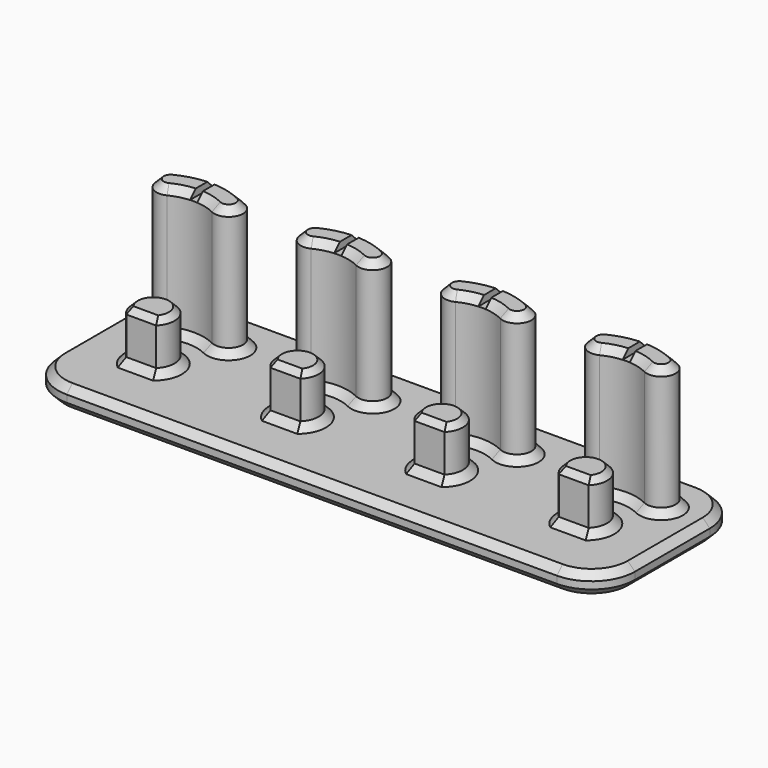
from build123d import *

# Parameters (mm, degrees)
PAD_DEPTH              = 3
PAD001_DEPTH           = 7
PAD002_DEPTH           = 18
SKETCH003_W            = 1
SKETCH003_H            = 10.328695
POCKET_DEPTH           = 1
LINEARPATTERN_COUNT    = 4
LINEARPATTERN_PITCH    = 20
LINEARPATTERN001_COUNT = 4
LINEARPATTERN001_PITCH = 20
LINEARPATTERN002_COUNT = 4
LINEARPATTERN002_PITCH = 20
CHAMFER_SIZE           = 1
CHAMFER001_SIZE        = 0.8
CHAMFER002_SIZE        = 1


with BuildPart() as part:
    # Sketch → Pad (new body)
    with BuildSketch(Plane.XY):
        with BuildLine():
            Line((-34, 15), (34, 15))
            ThreePointArc((40, 9), (38.242641, 13.242641), (34, 15))
            Line((40, 9), (40, -4))
            ThreePointArc((34, -10), (38.242641, -8.242641), (40, -4))
            Line((34, -10), (-34, -10))
            ThreePointArc((-40, -4), (-38.242641, -8.242641), (-34, -10))
            Line((-40, -4), (-40, 9))
            ThreePointArc((-34, 15), (-38.242641, 13.242641), (-40, 9))
        make_face()
    extrude(amount=PAD_DEPTH)

    # Sketch001 (on Face10 of Pad) → Pad001 (join)
    with BuildSketch(Plane.XY.offset(3)):
        with BuildLine():
            Line((-32.071835, -2.1), (-27.928165, -2.1))
            ThreePointArc((-27.928165, -2.1), (-30, 2.95), (-32.071835, -2.1))
        make_face()
    pad001 = extrude(amount=PAD001_DEPTH)

    # Sketch002 (on Face5 of Pad001) → Pad002 (join)
    with BuildSketch(Plane.XY.offset(3)):
        with BuildLine():
            ThreePointArc((-26.888889, 6.270645), (-30, 7), (-33.111111, 6.270645))
            ThreePointArc((-34.888889, 9.853871), (-35.791613, 7.173369), (-33.111111, 6.270645))
            ThreePointArc((-25.111111, 9.853871), (-30, 11), (-34.888889, 9.853871))
            ThreePointArc((-26.888889, 6.270645), (-24.208387, 7.173369), (-25.111111, 9.853871))
        make_face()
    pad002 = extrude(amount=PAD002_DEPTH)

    # Sketch003 (on Face18 of Pad002) → Pocket (cut)
    with BuildSketch(Plane.XY.offset(21)):
        with Locations((-30, 9.690067)):
            Rectangle(SKETCH003_W, SKETCH003_H)
    pocket = extrude(amount=-POCKET_DEPTH, mode=Mode.SUBTRACT)

    # LinearPattern: Pad001 ×4
    with Locations(*[(i * LINEARPATTERN_PITCH, 0, 0) for i in range(1, LINEARPATTERN_COUNT)]):
        add(pad001)

    # LinearPattern001: Pad002 ×4
    with Locations(*[(i * LINEARPATTERN001_PITCH, 0, 0) for i in range(1, LINEARPATTERN001_COUNT)]):
        add(pad002)

    # LinearPattern002: Pocket ×4
    with Locations(*[(i * LINEARPATTERN002_PITCH, 0, 0) for i in range(1, LINEARPATTERN002_COUNT)]):
        add(pocket, mode=Mode.SUBTRACT)

    # Chamfer
    chamfer_edges = [part.edges().sort_by_distance(p)[0] for p in [
        (-40, 2.5, 3),
        (-38.242641, -8.242641, 3),
        (-38.242641, 13.242641, 3),
        (0, -10, 3),
        (0, 15, 3),
        (38.242641, -8.242641, 3),
        (38.242641, 13.242641, 3),
        (40, 2.5, 3),
        (10, 7, 3),
        (15.791613, 7.173369, 3),
        (4.208387, 7.173369, 3),
        (10, 11, 3),
        (-10, 7, 3),
        (-4.208387, 7.173369, 3),
        (-15.791613, 7.173369, 3),
        (-10, 11, 3),
        (-30, 7, 3),
        (-24.208387, 7.173369, 3),
        (-35.791613, 7.173369, 3),
        (-30, 11, 3),
        (-30, 2.95, 3),
        (-30, -2.1, 3),
        (30, 2.95, 3),
        (30, -2.1, 3),
        (30, 7, 3),
        (24.208387, 7.173369, 3),
        (30, 11, 3),
        (35.791613, 7.173369, 3),
        (-10, 2.95, 3),
        (-10, -2.1, 3),
        (10, 2.95, 3),
        (10, -2.1, 3),
        (-40, 2.5, 0),
        (-38.242641, 13.242641, 0),
        (0, 15, 0),
        (38.242641, 13.242641, 0),
        (40, 2.5, 0),
        (38.242641, -8.242641, 0),
        (0, -10, 0),
        (-38.242641, -8.242641, 0),
    ]]
    chamfer(chamfer_edges, length=CHAMFER_SIZE)

    # Chamfer001
    chamfer001_edges = [part.edges().sort_by_distance(p)[0] for p in [
        (-30, -2.1, 10),
        (-30, 2.95, 10),
        (-10, -2.1, 10),
        (-10, 2.95, 10),
        (10, -2.1, 10),
        (10, 2.95, 10),
        (30, -2.1, 10),
        (30, 2.95, 10),
    ]]
    chamfer(chamfer001_edges, length=CHAMFER001_SIZE)

    # Chamfer002
    chamfer002_edges = [part.edges().sort_by_distance(p)[0] for p in [
        (-35.791613, 7.173369, 21),
        (-24.208387, 7.173369, 21),
        (-15.791613, 7.173369, 21),
        (-4.208387, 7.173369, 21),
        (4.208387, 7.173369, 21),
        (15.791613, 7.173369, 21),
        (24.208387, 7.173369, 21),
        (35.791613, 7.173369, 21),
    ]]
    chamfer(chamfer002_edges, length=CHAMFER002_SIZE)


solid = part.part
